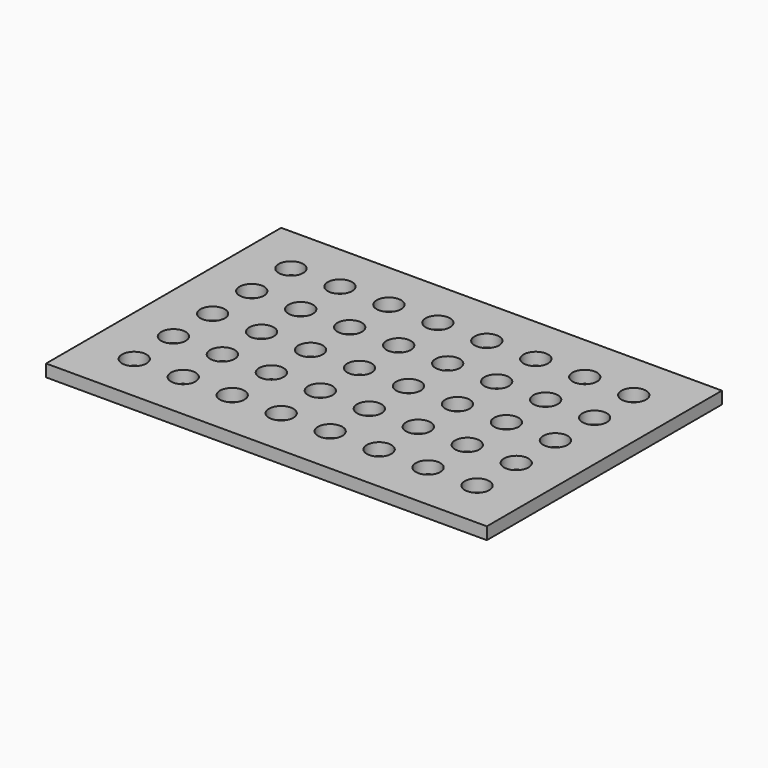
from build123d import *

# Parameters (mm, degrees)
F0_W     = 914.4
F0_H     = 609.6
F0_R     = 25.4
F1_DEPTH = 25.4


with BuildPart() as f1:
    # F0 (on Top) → F1 (new body)
    with BuildSketch(Plane.XY):
        with Locations((355.6, 178.164508)):
            Rectangle(F0_W, F0_H)
        with Locations((0, -25.035492)):
            Circle(F0_R, mode=Mode.SUBTRACT)
        with Locations((101.6, -25.035492)):
            Circle(F0_R, mode=Mode.SUBTRACT)
        with Locations((203.2, -25.035492)):
            Circle(F0_R, mode=Mode.SUBTRACT)
        with Locations((304.8, -25.035492)):
            Circle(F0_R, mode=Mode.SUBTRACT)
        with Locations((0, 76.564508)):
            Circle(F0_R, mode=Mode.SUBTRACT)
        with Locations((101.6, 76.564508)):
            Circle(F0_R, mode=Mode.SUBTRACT)
        with Locations((0, 178.164508)):
            Circle(F0_R, mode=Mode.SUBTRACT)
        with Locations((101.6, 178.164508)):
            Circle(F0_R, mode=Mode.SUBTRACT)
        with Locations((203.2, 76.564508)):
            Circle(F0_R, mode=Mode.SUBTRACT)
        with Locations((304.8, 76.564508)):
            Circle(F0_R, mode=Mode.SUBTRACT)
        with Locations((203.2, 178.164508)):
            Circle(F0_R, mode=Mode.SUBTRACT)
        with Locations((406.4, -25.035492)):
            Circle(F0_R, mode=Mode.SUBTRACT)
        with Locations((508, -25.035492)):
            Circle(F0_R, mode=Mode.SUBTRACT)
        with Locations((609.6, -25.035492)):
            Circle(F0_R, mode=Mode.SUBTRACT)
        with Locations((711.2, -25.035492)):
            Circle(F0_R, mode=Mode.SUBTRACT)
        with Locations((406.4, 76.564508)):
            Circle(F0_R, mode=Mode.SUBTRACT)
        with Locations((508, 76.564508)):
            Circle(F0_R, mode=Mode.SUBTRACT)
        with Locations((406.4, 178.164508)):
            Circle(F0_R, mode=Mode.SUBTRACT)
        with Locations((508, 178.164508)):
            Circle(F0_R, mode=Mode.SUBTRACT)
        with Locations((609.6, 76.564508)):
            Circle(F0_R, mode=Mode.SUBTRACT)
        with Locations((711.2, 76.564508)):
            Circle(F0_R, mode=Mode.SUBTRACT)
        with Locations((0, 279.764508)):
            Circle(F0_R, mode=Mode.SUBTRACT)
        with Locations((101.6, 279.764508)):
            Circle(F0_R, mode=Mode.SUBTRACT)
        with Locations((304.8, 178.164508)):
            Circle(F0_R, mode=Mode.SUBTRACT)
        with Locations((203.2, 279.764508)):
            Circle(F0_R, mode=Mode.SUBTRACT)
        with Locations((304.8, 279.764508)):
            Circle(F0_R, mode=Mode.SUBTRACT)
        with Locations((0, 381.364508)):
            Circle(F0_R, mode=Mode.SUBTRACT)
        with Locations((101.6, 381.364508)):
            Circle(F0_R, mode=Mode.SUBTRACT)
        with Locations((203.2, 381.364508)):
            Circle(F0_R, mode=Mode.SUBTRACT)
        with Locations((304.8, 381.364508)):
            Circle(F0_R, mode=Mode.SUBTRACT)
        with Locations((406.4, 279.764508)):
            Circle(F0_R, mode=Mode.SUBTRACT)
        with Locations((508, 279.764508)):
            Circle(F0_R, mode=Mode.SUBTRACT)
        with Locations((609.6, 178.164508)):
            Circle(F0_R, mode=Mode.SUBTRACT)
        with Locations((711.2, 178.164508)):
            Circle(F0_R, mode=Mode.SUBTRACT)
        with Locations((609.6, 279.764508)):
            Circle(F0_R, mode=Mode.SUBTRACT)
        with Locations((711.2, 279.764508)):
            Circle(F0_R, mode=Mode.SUBTRACT)
        with Locations((406.4, 381.364508)):
            Circle(F0_R, mode=Mode.SUBTRACT)
        with Locations((508, 381.364508)):
            Circle(F0_R, mode=Mode.SUBTRACT)
        with Locations((609.6, 381.364508)):
            Circle(F0_R, mode=Mode.SUBTRACT)
        with Locations((711.2, 381.364508)):
            Circle(F0_R, mode=Mode.SUBTRACT)
    extrude(amount=F1_DEPTH)


solid = f1.part
